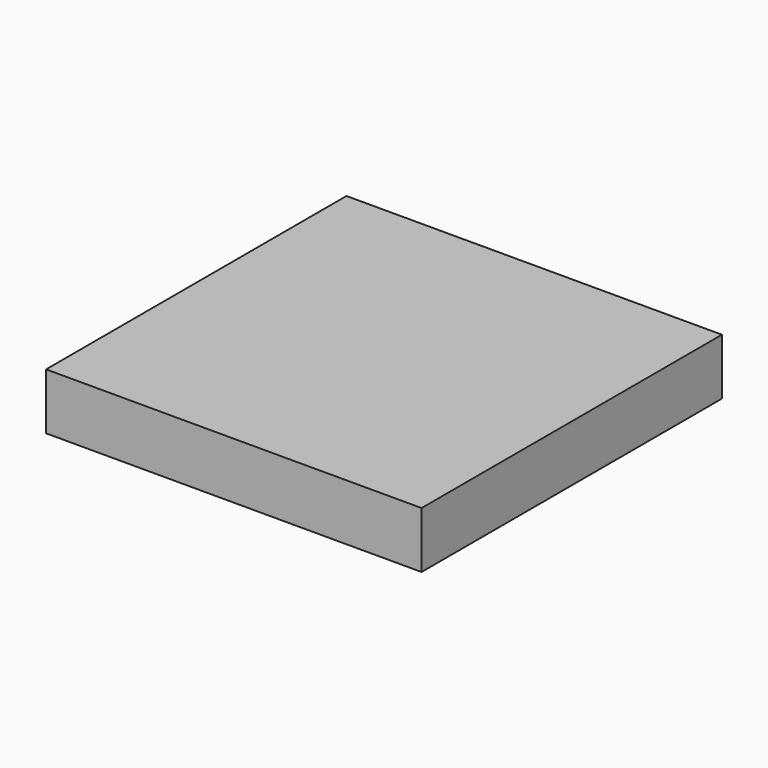
from build123d import *

# Parameters (mm, degrees)
BOX_W     = 20
BOX_H     = 20
BOX_DEPTH = 3


with BuildPart() as part:
    # Box → Box (new body)
    with BuildSketch(Plane(origin=(-10, -10, 0), x_dir=(1, 0, 0), z_dir=(0, 0, 1))):
        with Locations((10, 10)):
            Rectangle(BOX_W, BOX_H)
    extrude(amount=BOX_DEPTH)


solid = part.part
